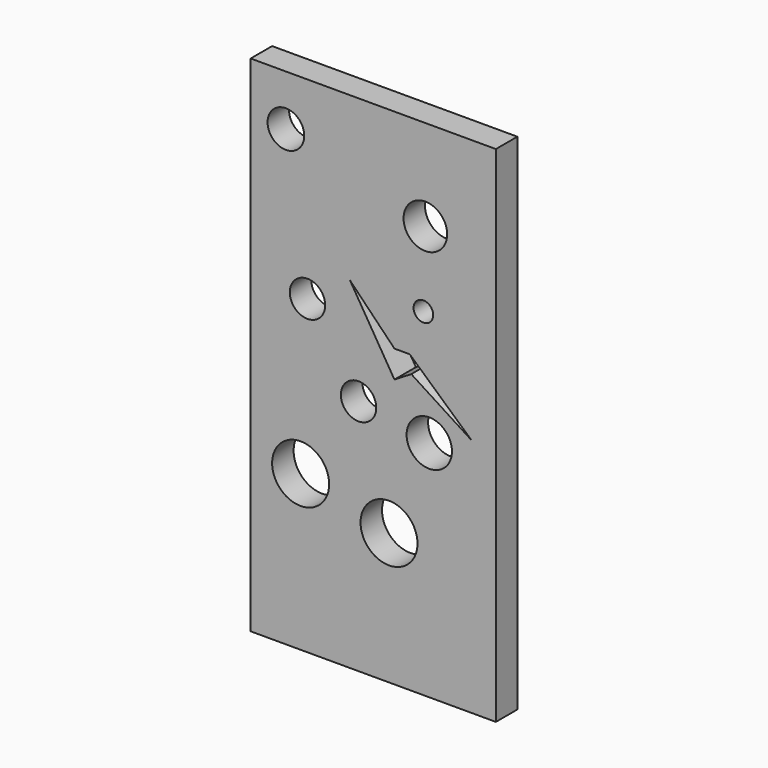
from build123d import *

# Parameters (mm, degrees)
F0_W     = 67.31
F0_H     = 138.43
F1_DEPTH = 7.366
F2_R     = 5.985409
F2_R_2   = 5.035969
F2_R_3   = 4.859729
F2_R_4   = 4.852246
F2_R_5   = 6.223489
F2_R_6   = 7.822156
F2_R_7   = 7.817507
F2_R_8   = 2.695695
F3_DEPTH = 25.4
F5_DEPTH = 25.4


with BuildPart() as f1:
    # F0 (on Front) → F1 (new body)
    with BuildSketch(Plane.XZ):
        with Locations((12.122316, 20.691026)):
            Rectangle(F0_W, F0_H)
    extrude(amount=F1_DEPTH)

    # F2 (on face) → F3 (cut)
    with BuildSketch(Plane.XZ.offset(7.366)):
        with Locations((26.417792, 64.943209)):
            Circle(F2_R)
        with Locations((-11.861048, 75.99555)):
            Circle(F2_R_2)
        with Locations((-5.930525, 36.908004)):
            Circle(F2_R_3)
        with Locations((8.087078, 16.690306)):
            Circle(F2_R_4)
        with Locations((27.496068, 12.916337)):
            Circle(F2_R_5)
        with Locations((-7.81751, -5.953513)):
            Circle(F2_R_6)
        with Locations((16.443726, -12.423175)):
            Circle(F2_R_7)
        with Locations((25.878653, 44.186372)):
            Circle(F2_R_8)
        with Locations((26.417792, 64.943209)):
            Circle(F2_R)
    extrude(amount=-F3_DEPTH, mode=Mode.SUBTRACT)

    # F4 (on face) → F5 (cut)
    with BuildSketch(Plane.XZ.offset(7.366)):
        Polygon((17.936366, 32.632034), (5.725363, 45.173392), (17.936366, 25.152631), (22.55336, 27.968614), (39.092198, 17.363565), (22.145992, 32.632034), align=None)
    extrude(amount=-F5_DEPTH, mode=Mode.SUBTRACT)


solid = f1.part
